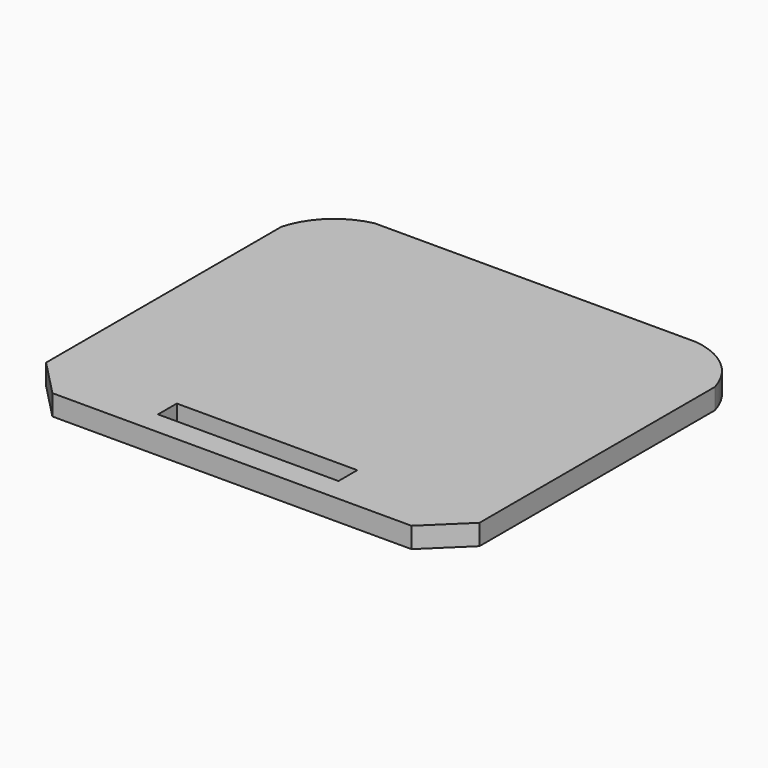
from build123d import *

# Parameters (mm, degrees)
F0_W     = 400
F0_H     = 352
F1_DEPTH = 19
F3_DEPTH = 19.001
F5_DEPTH = 19.001
F6_W     = 166.512146
F6_H     = 21.710783
F7_DEPTH = 19.001


with BuildPart() as f1:
    # F0 (on Top) → F1 (new body)
    with BuildSketch(Plane.XY):
        with Locations((3.291806, 0)):
            Rectangle(F0_W, F0_H)
    extrude(amount=F1_DEPTH)

    # F2 (on face) → F3 (cut, through all)
    with BuildSketch(Plane.XY.offset(19)):
        with BuildLine():
            ThreePointArc((-196.708194, 129.747689), (-178.598659, 159.856691), (-147.391275, 176))
            Line((-147.391275, 176), (-196.708194, 176))
            Line((-196.708194, 176), (-196.708194, 129.747689))
        make_face()
        with BuildLine():
            Line((203.291806, 176), (148.288742, 176))
            ThreePointArc((148.288742, 176), (182.953617, 161.392464), (203.291806, 129.747689))
            Line((203.291806, 129.747689), (203.291806, 176))
        make_face()
    extrude(amount=-F3_DEPTH, mode=Mode.SUBTRACT)

    # F4 (on face) → F5 (cut, through all)
    with BuildSketch(Plane.XY.offset(19)):
        Polygon((-163.379148, -176), (-196.708194, -141.636923), (-196.708194, -176), align=None)
        Polygon((203.291806, -141.739659), (167.968541, -176), (203.291806, -176), align=None)
    extrude(amount=-F5_DEPTH, mode=Mode.SUBTRACT)

    # F6 (on face) → F7 (cut, through all)
    with BuildSketch(Plane.XY.offset(19)):
        with Locations((0, -143.512011)):
            Rectangle(F6_W, F6_H)
    extrude(amount=-F7_DEPTH, mode=Mode.SUBTRACT)


solid = f1.part
